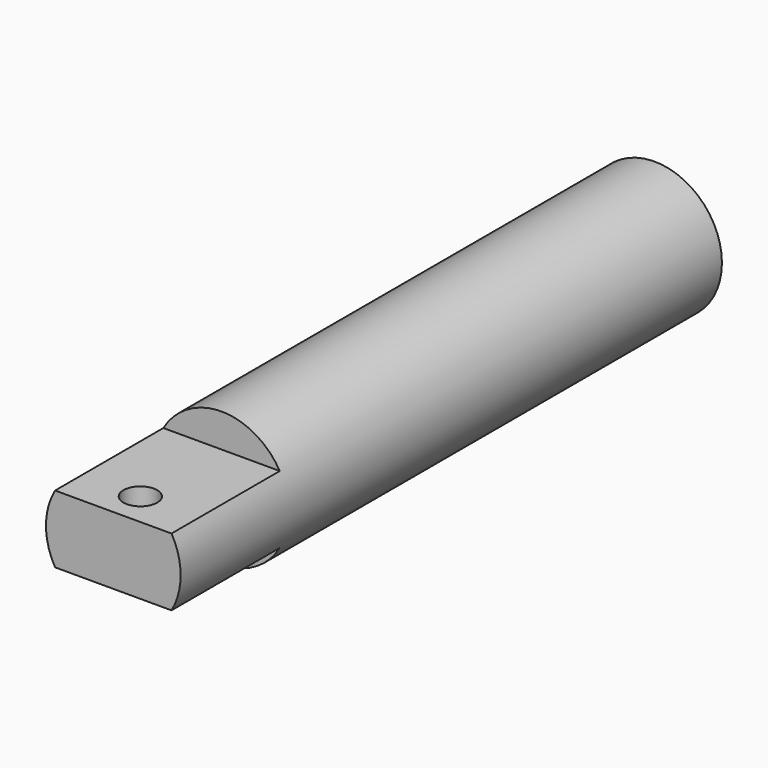
from build123d import *

# Parameters (mm, degrees)
F0_R     = 12.6365
F1_DEPTH = 127
F2_W     = 45.04818
F2_H     = 13.307043
F2_W_2   = 50.804562
F2_H_2   = 8.917604
F3_DEPTH = 25.4
F7_R     = 3.175
F8_DEPTH = 25.4


with BuildPart() as f1:
    # F0 (on Front) → F1 (new body)
    with BuildSketch(Plane.XZ):
        Circle(F0_R)
    extrude(amount=F1_DEPTH)

    # F2 (on face) → F3 (cut)
    with BuildSketch(Plane.XZ.offset(127)):
        with Locations((2.344624, 13.003521)):
            Rectangle(F2_W, F2_H)
        with Locations((3.628193, -10.808802)):
            Rectangle(F2_W_2, F2_H_2)
    extrude(amount=-F3_DEPTH, mode=Mode.SUBTRACT)

    # F5 (on offset) → F6 (revolve, cut)
    with BuildSketch(Plane.XZ.offset(-6.35)):
        with BuildLine():
            Line((-12.7, 0), (12.7, 0))
            ThreePointArc((12.7, 0), (0, 12.7), (-12.7, 0))
        make_face()
    revolve(axis=Axis((1.500757, 6.35, 0), (-1, 0, 0)), mode=Mode.SUBTRACT)

    # F7 (on face) → F8 (cut)
    with BuildSketch(Plane.XY.offset(6.35)):
        with Locations((0, -120.65)):
            Circle(F7_R)
    extrude(amount=-F8_DEPTH, mode=Mode.SUBTRACT)


solid = f1.part
